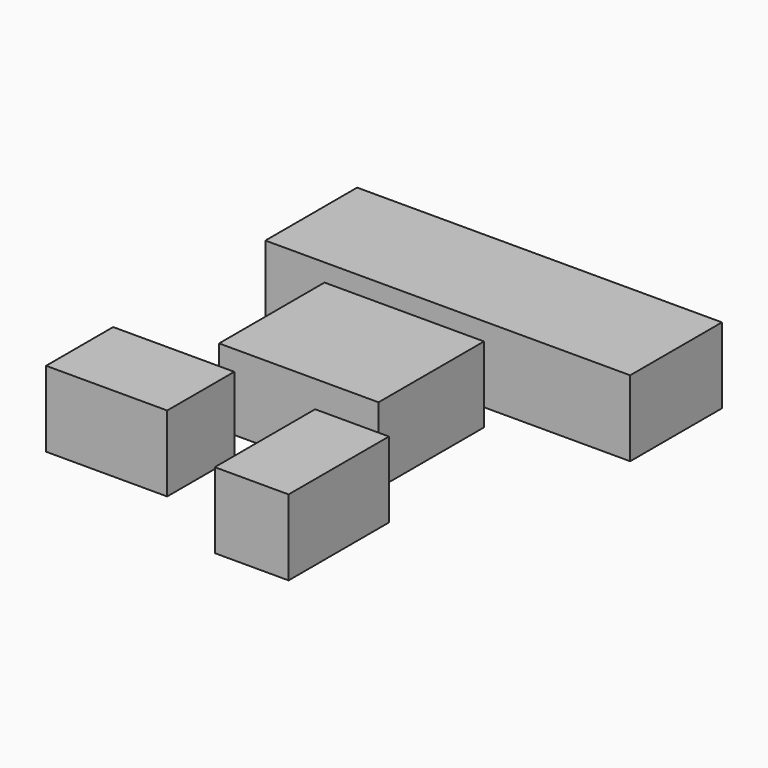
from build123d import *

# Parameters (mm, degrees)
F0_W     = 52.663679
F0_H     = 43.525683
F0_W_2   = 40
F0_H_2   = 27.69231
F0_W_3   = 120.473374
F0_H_3   = 37.869826
F0_W_4   = 24.378693
F0_H_4   = 41.420122
F1_DEPTH = 25


with BuildPart() as f1:
    # F0 (on Top) → F1 (new body)
    with BuildSketch(Plane.XY):
        with Locations((-1.494863, 5.839619)):
            Rectangle(F0_W, F0_H)
        with Locations((-34.858162, -39.700749)):
            Rectangle(F0_W_2, F0_H_2)
        with Locations((5.851899, 55.328837)):
            Rectangle(F0_W_3, F0_H_3)
        with Locations((26.680304, -49.878273)):
            Rectangle(F0_W_4, F0_H_4)
    extrude(amount=F1_DEPTH)


solid = f1.part
